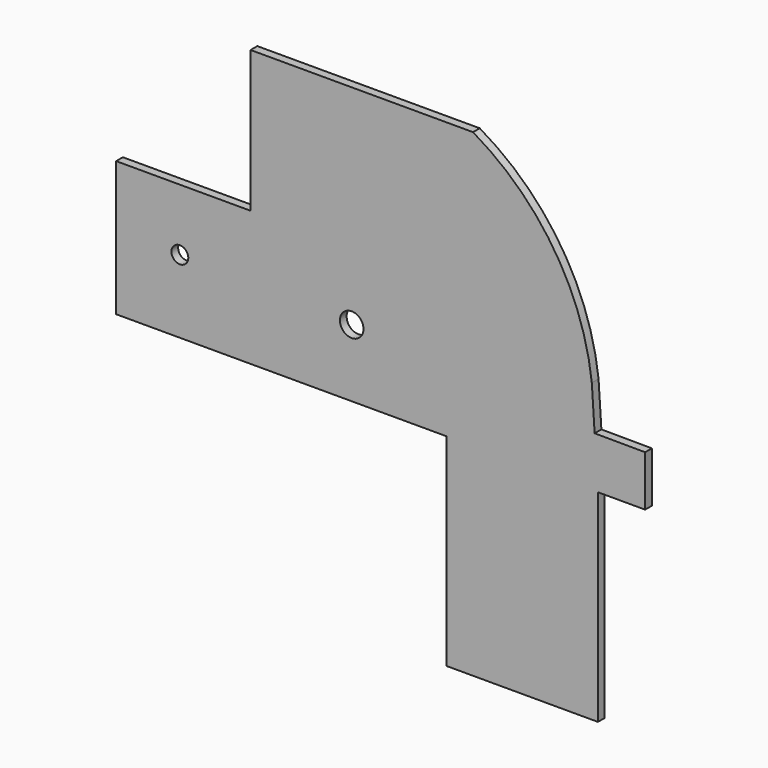
from build123d import *

# Parameters (mm, degrees)
F0_R     = 8.89
F1_DEPTH = 6.35
F2_R     = 6.35
F3_DEPTH = 6.35


with BuildPart() as f1:
    # F0 (on Front) → F1 (new body)
    with BuildSketch(Plane.XZ):
        with BuildLine():
            Line((185.577022469, 0), (180.975, 71.12))
            ThreePointArc((180.975, 71.12), (152.5070559975, 150.3311554036), (91.4598415973, 208.28))
            Line((91.4598415973, 208.28), (-76.2, 208.28))
            Line((-76.2, 208.28), (-76.2, 0))
            Line((-76.2, 0), (71.277022469, 0))
            Line((71.277022469, 0), (71.277022469, -152.4))
            Line((71.277022469, -152.4), (185.577022469, -152.4))
            Line((185.577022469, -152.4), (185.577022469, 0))
        make_face()
        with Locations((0, 50.8)):
            Circle(F0_R, mode=Mode.SUBTRACT)
    extrude(amount=F1_DEPTH)

    # F2 (on Front) → F3 (join)
    with BuildSketch(Plane.XZ):
        Polygon((183.1000647938, 38.2790894758), (185.577022469, 0), (221.1372837614, 0), (221.1372837614, 38.1), align=None)
        Polygon((-177.5045543909, 0), (-75.9045543909, 0), (-74.7492164373, 101.6), (-177.5045543909, 101.6), align=None)
        with Locations((-129.4922381639, 55.0871528685)):
            Circle(F2_R, mode=Mode.SUBTRACT)
    extrude(amount=F3_DEPTH)


solid = f1.part
